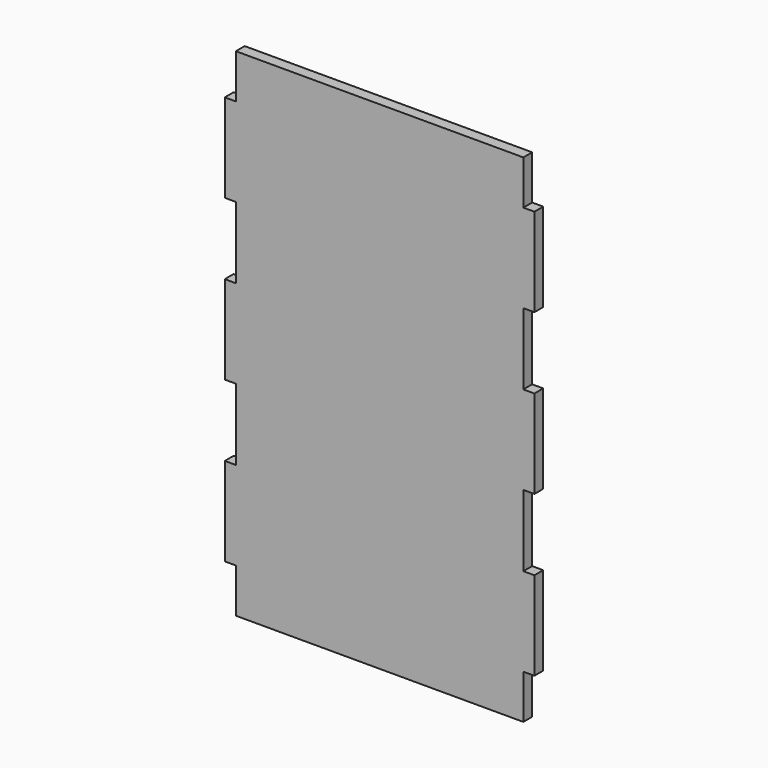
from build123d import *

# Parameters (mm, degrees)
F1_DEPTH = 3.175


with BuildPart() as f1:
    # F0 (on Front) → F1 (new body)
    with BuildSketch(Plane.XZ):
        Polygon((-41.275, -71.3486), (41.275, -71.3486), (41.275, -58.6486), (44.45, -58.6486), (44.45, -33.2486), (41.275, -33.2486), (41.275, -12.7), (44.45, -12.7), (44.45, 12.7), (41.275, 12.7), (41.275, 33.2486), (44.45, 33.2486), (44.45, 58.6486), (41.275, 58.6486), (41.275, 71.3486), (-41.275, 71.3486), (-41.275, 58.6486), (-44.45, 58.6486), (-44.45, 33.2486), (-41.275, 33.2486), (-41.275, 12.7), (-44.45, 12.7), (-44.45, -12.7), (-41.275, -12.7), (-41.275, -33.2486), (-44.45, -33.2486), (-44.45, -58.6486), (-41.275, -58.6486), align=None)
    extrude(amount=F1_DEPTH)


solid = f1.part
